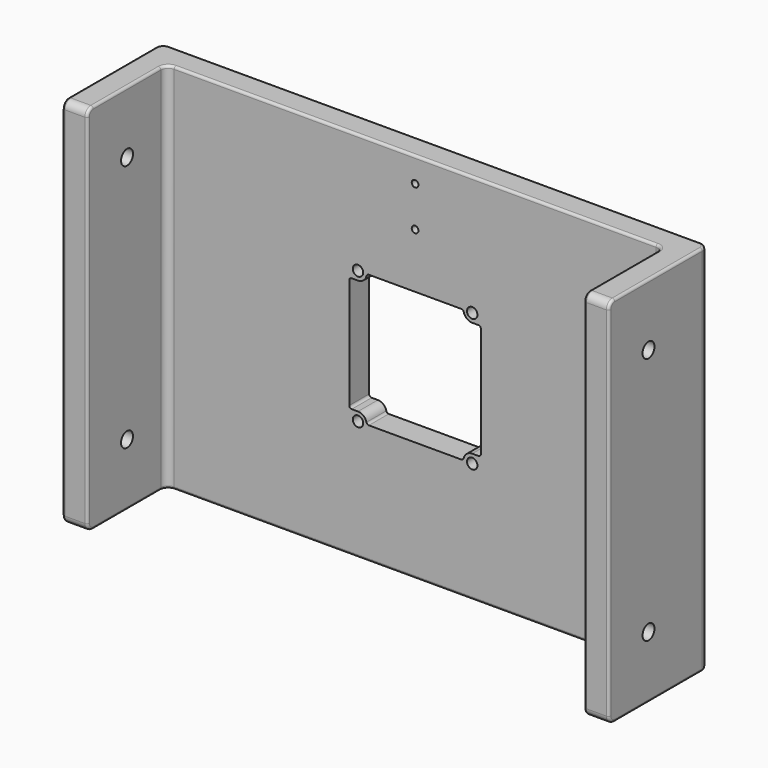
from build123d import *

# Parameters (mm, degrees)
PAD_DEPTH       = 75
SKETCH001_R     = 3
POCKET_DEPTH    = 110.001
FILLET_R        = 3
FILLET001_R     = 1
SKETCH002_R     = 2.1
POCKET001_DEPTH = 6
POCKET002_DEPTH = 10.001
FILLET002_R     = 1
SKETCH004_R     = 1.35
POCKET003_DEPTH = 6


with BuildPart() as part:
    # Sketch → Pad (new body, symmetric)
    with BuildSketch(Plane.XY):
        Polygon((0, 40), (-100, 40), (-100, 0), (-110, 0), (-110, 50), (0, 50), align=None)
        Polygon((0, 40), (0, 50), align=None)
    extrude(amount=PAD_DEPTH, both=True)

    # Sketch001 (on Face3 of Pad) → Pocket (cut, through all)
    with BuildSketch(Plane(origin=(-110, 0, 0), x_dir=(0, -1, 0), z_dir=(-1, 0, 0))):
        with Locations((-20, -50)):
            Circle(SKETCH001_R)
        with Locations((-20, 50)):
            Circle(SKETCH001_R)
    extrude(amount=-POCKET_DEPTH, mode=Mode.SUBTRACT)

    # Fillet
    fillet_edges = [part.edges().sort_by_distance(p)[0] for p in [
        (-105, 0, -75),
        (-100, 40, 0),
        (-105, 0, 75),
        (-110, 50, 0),
    ]]
    fillet(fillet_edges, radius=FILLET_R)

    # Fillet001
    fillet001_edges = [part.edges().sort_by_distance(p)[0] for p in [
        (-110, 25, 75),
        (-100, 0, 0),
    ]]
    fillet(fillet001_edges, radius=FILLET001_R)

    # Sketch002 (on Face1 of Fillet001) → Pocket001 (cut)
    with BuildSketch(Plane.XZ.offset(-40)):
        with Locations((-23, -26.7)):
            Circle(SKETCH002_R)
        with Locations((-23, 26.7)):
            Circle(SKETCH002_R)
    extrude(amount=-POCKET001_DEPTH, mode=Mode.SUBTRACT)

    # Sketch003 (on Face1 of Pocket001) → Pocket002 (cut, through all)
    with BuildSketch(Plane.XZ.offset(-40)):
        with BuildLine():
            Line((0, -26.7), (-19.5, -26.7))
            ThreePointArc((-19.5, -26.7), (-20.525126, -24.225126), (-23, -23.2))
            Line((-23, -23.2), (-26.5, -23.2))
            Line((-26.5, 23.2), (-26.5, -23.2))
            Line((-23, 23.2), (-26.5, 23.2))
            ThreePointArc((-23, 23.2), (-20.525126, 24.225126), (-19.5, 26.7))
            Line((-19.5, 26.7), (0, 26.7))
            Line((0, 26.7), (0, -26.7))
        make_face()
    extrude(amount=-POCKET002_DEPTH, mode=Mode.SUBTRACT)

    # Fillet002
    fillet002_edges = [part.edges().sort_by_distance(p)[0] for p in [
        (-26.5, 45, 23.2),
        (-19.5, 45, 26.7),
        (-26.5, 45, -23.2),
        (-19.5, 45, -26.7),
    ]]
    fillet(fillet002_edges, radius=FILLET002_R)

    # Mirrored: part across YZ


with BuildPart() as part_1:
    add(part.part)
    add(part.part.mirror(Plane.YZ))

    # Sketch004 (on Face24 of Mirrored) → Pocket003 (cut)
    with BuildSketch(Plane.XZ.offset(-40)):
        with Locations((0, 65)):
            Circle(SKETCH004_R)
        with Locations((0, 48.81)):
            Circle(SKETCH004_R)
    extrude(amount=-POCKET003_DEPTH, mode=Mode.SUBTRACT)


solid = part_1.part
